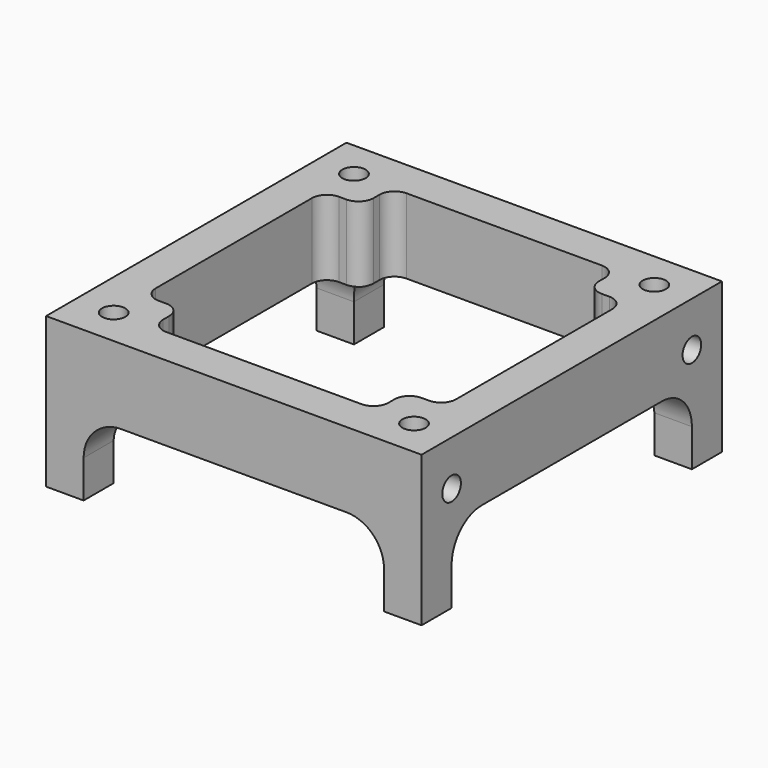
from build123d import *

# Parameters (mm, degrees)
SKETCH173_W             = 50
SKETCH173_H             = 50
PAD029_DEPTH            = 20
POCKET145_DEPTH         = 20.001
POCKET146_DEPTH         = 50.001
POCKET147_DEPTH         = 50.001
SKETCH177_R             = 1.55
POCKET148_DEPTH         = 5
SKETCH178_R             = 1.55
POCKET149_DEPTH         = 3
SKETCH179_R             = 1.55
POCKET150_DEPTH         = 3
BODY030_PLACEMENT_ANGLE = 180


with BuildPart() as part:
    # Sketch173 → Pad029 (new body)
    with BuildSketch(Plane.XY):
        Rectangle(SKETCH173_W, SKETCH173_H)
    extrude(amount=PAD029_DEPTH)

    # Sketch174 (on Face6 of Pad029) → Pocket145 (cut, through all)
    with BuildSketch(Plane.XY.offset(20)):
        with BuildLine():
            Line((-18, 15), (-17, 15))
            ThreePointArc((-17, 15), (-15.585786, 15.585786), (-15, 17))
            Line((-15, 17), (-15, 18))
            ThreePointArc((-13, 20), (-14.414214, 19.414214), (-15, 18))
            Line((-13, 20), (13, 20))
            ThreePointArc((15, 18), (14.414214, 19.414214), (13, 20))
            Line((15, 18), (15, 17))
            ThreePointArc((15, 17), (15.585786, 15.585786), (17, 15))
            Line((17, 15), (18, 15))
            ThreePointArc((20, 13), (19.414214, 14.414214), (18, 15))
            Line((20, 13), (20, -13))
            ThreePointArc((18, -15), (19.414214, -14.414214), (20, -13))
            Line((18, -15), (17, -15))
            ThreePointArc((17, -15), (15.585786, -15.585786), (15, -17))
            Line((15, -17), (15, -18))
            ThreePointArc((13, -20), (14.414214, -19.414214), (15, -18))
            Line((13, -20), (-13, -20))
            ThreePointArc((-15, -18), (-14.414214, -19.414214), (-13, -20))
            Line((-15, -18), (-15, -17))
            ThreePointArc((-15, -17), (-15.585786, -15.585786), (-17, -15))
            Line((-17, -15), (-18, -15))
            ThreePointArc((-20, -13), (-19.414214, -14.414214), (-18, -15))
            Line((-20, -13), (-20, 13))
            ThreePointArc((-18, 15), (-19.414214, 14.414214), (-20, 13))
        make_face()
    extrude(amount=-POCKET145_DEPTH, mode=Mode.SUBTRACT)

    # Sketch175 (on Face3 of Pocket145) → Pocket146 (cut, through all)
    with BuildSketch(Plane.YZ.offset(25)):
        with BuildLine():
            Line((-15, 10), (15, 10))
            ThreePointArc((20, 5), (18.535534, 8.535534), (15, 10))
            Line((20, 5), (20, 0))
            Line((20, 0), (-20, 0))
            Line((-20, 0), (-20, 5))
            ThreePointArc((-15, 10), (-18.535534, 8.535534), (-20, 5))
        make_face()
    extrude(amount=-POCKET146_DEPTH, mode=Mode.SUBTRACT)

    # Sketch176 (on Face6 of Pocket145) → Pocket147 (cut, through all)
    with BuildSketch(Plane.XZ.offset(25)):
        with BuildLine():
            Line((-15, 10), (15, 10))
            ThreePointArc((20, 5), (18.535534, 8.535534), (15, 10))
            Line((20, 5), (20, 0))
            Line((20, 0), (-20, 0))
            Line((-20, 0), (-20, 5))
            ThreePointArc((-15, 10), (-18.535534, 8.535534), (-20, 5))
        make_face()
    extrude(amount=-POCKET147_DEPTH, mode=Mode.SUBTRACT)

    # Sketch177 → Pocket148 (cut)
    with BuildSketch(Plane.XY.offset(20)):
        with Locations((-20, 20)):
            Circle(SKETCH177_R)
        with Locations((20, 20)):
            Circle(SKETCH177_R)
        with Locations((20, -20)):
            Circle(SKETCH177_R)
        with Locations((-20, -20)):
            Circle(SKETCH177_R)
    extrude(amount=-POCKET148_DEPTH, mode=Mode.SUBTRACT)

    # Sketch178 (on Face27 of Pocket148) → Pocket149 (cut)
    with BuildSketch(Plane.XZ.offset(25)):
        with Locations((-20, 14)):
            Circle(SKETCH178_R)
        with Locations((20, 14)):
            Circle(SKETCH178_R)
    extrude(amount=-POCKET149_DEPTH, mode=Mode.SUBTRACT)

    # Sketch179 (on Face11 of Pocket149) → Pocket150 (cut)
    with BuildSketch(Plane(origin=(-25, 0, 0), x_dir=(0, -1, 0), z_dir=(-1, 0, 0))):
        with Locations((-20, 14)):
            Circle(SKETCH179_R)
        with Locations((20, 14)):
            Circle(SKETCH179_R)
    extrude(amount=-POCKET150_DEPTH, mode=Mode.SUBTRACT)


with BuildPart() as part_1:
    # Body030 placement: moved
    add(part.part.moved(Location((145, 145, 0))).rotate(Axis((145, 145, 0), (0, 0, 1)), BODY030_PLACEMENT_ANGLE))


solid = part_1.part
